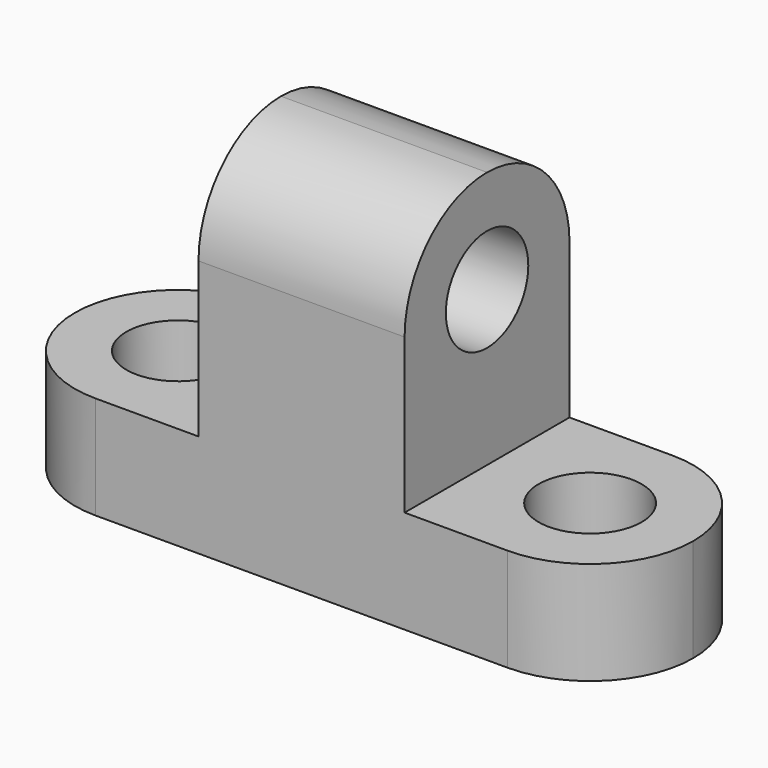
from build123d import *

# Parameters (mm, degrees)
F1_DEPTH = 25.4
F2_R     = 6.35
F3_DEPTH = 25.4
F4_R     = 6.35
F5_DEPTH = 25.4
F6_R     = 6.35
F7_DEPTH = 25.4


with BuildPart() as f1:
    # F0 (on Front) → F1 (new body)
    with BuildSketch(Plane.XZ):
        Polygon((0, 12.7), (0, 0), (76.2, 0), (76.2, 12.7), (50.8, 12.7), (50.8, 44.45), (25.4, 44.45), (25.4, 12.7), align=None)
    extrude(amount=F1_DEPTH)

    # F2 (on face) → F3 (cut)
    with BuildSketch(Plane.YZ.offset(50.8)):
        with BuildLine():
            ThreePointArc((-25.4, 31.75), (-21.680256, 40.730256), (-12.7, 44.45))
            Line((-12.7, 44.45), (-25.4, 44.45))
            Line((-25.4, 44.45), (-25.4, 31.75))
        make_face()
        with BuildLine():
            ThreePointArc((-12.7, 44.45), (-3.719744, 40.730256), (0, 31.75))
            Line((0, 31.75), (0, 44.45))
            Line((0, 44.45), (-12.7, 44.45))
        make_face()
        with Locations((-12.7, 31.75)):
            Circle(F2_R)
    extrude(amount=-F3_DEPTH, mode=Mode.SUBTRACT)

    # F4 (on face) → F5 (cut)
    with BuildSketch(Plane.XY.offset(12.7)):
        with BuildLine():
            ThreePointArc((0, -12.7), (3.719744, -3.719744), (12.7, 0))
            Line((12.7, 0), (0, 0))
            Line((0, 0), (0, -12.7))
        make_face()
        with Locations((12.7, -12.7)):
            Circle(F4_R)
        with BuildLine():
            ThreePointArc((12.7, -25.4), (3.719744, -21.680256), (0, -12.7))
            Line((0, -12.7), (0, -25.4))
            Line((0, -25.4), (12.7, -25.4))
        make_face()
    extrude(amount=-F5_DEPTH, mode=Mode.SUBTRACT)

    # F6 (on face) → F7 (cut)
    with BuildSketch(Plane.XY.offset(12.7)):
        with BuildLine():
            ThreePointArc((63.5, 0), (72.480256, -3.719744), (76.2, -12.7))
            Line((76.2, -12.7), (76.2, 0))
            Line((76.2, 0), (63.5, 0))
        make_face()
        with BuildLine():
            ThreePointArc((76.2, -12.7), (72.480256, -21.680256), (63.5, -25.4))
            Line((63.5, -25.4), (76.2, -25.4))
            Line((76.2, -25.4), (76.2, -12.7))
        make_face()
        with Locations((63.5, -12.7)):
            Circle(F6_R)
    extrude(amount=-F7_DEPTH, mode=Mode.SUBTRACT)


solid = f1.part
